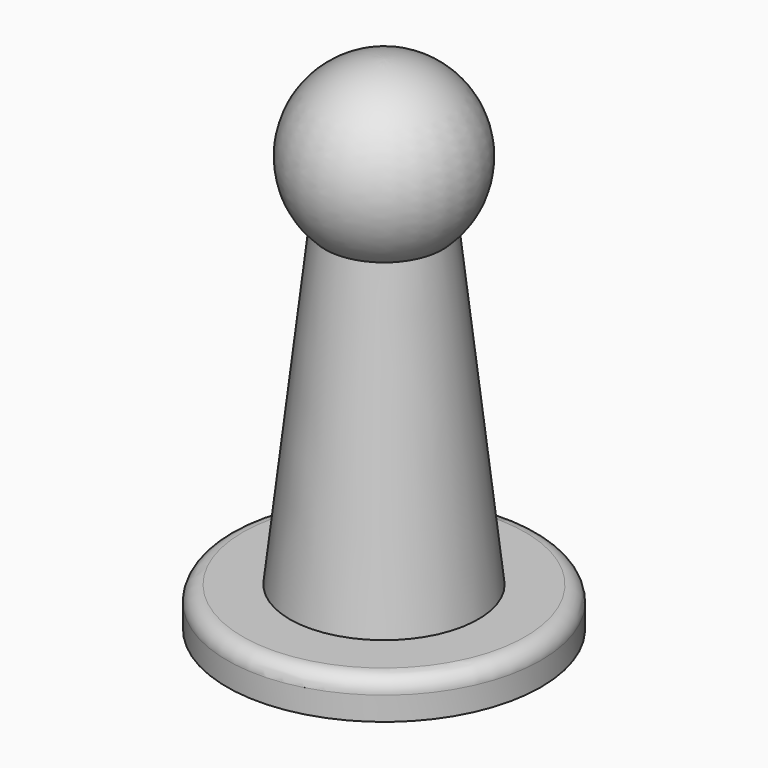
from build123d import *

# Parameters (mm, degrees)
F2_R = 2


with BuildPart() as f1:
    # F0 (on Front) → F1 (revolve)
    with BuildSketch(Plane.XZ):
        with BuildLine():
            Line((-20, 2.5), (-20, -2.5))
            Line((-20, -2.5), (0, -2.5))
            Line((0, -2.5), (0, 61.465856))
            ThreePointArc((0, 61.465856), (-10.197241, 54.532473), (-7.5, 42.5))
            Line((-7.5, 42.5), (-12, 2.5))
            Line((-12, 2.5), (-20, 2.5))
        make_face()
    revolve(axis=Axis((0, 0, 22.5), (0, 0, 1)))

    # F2
    f2_edges = [f1.edges().sort_by_distance(p)[0] for p in [
        (20, 0, 2.5),
    ]]
    fillet(f2_edges, radius=F2_R)


solid = f1.part
